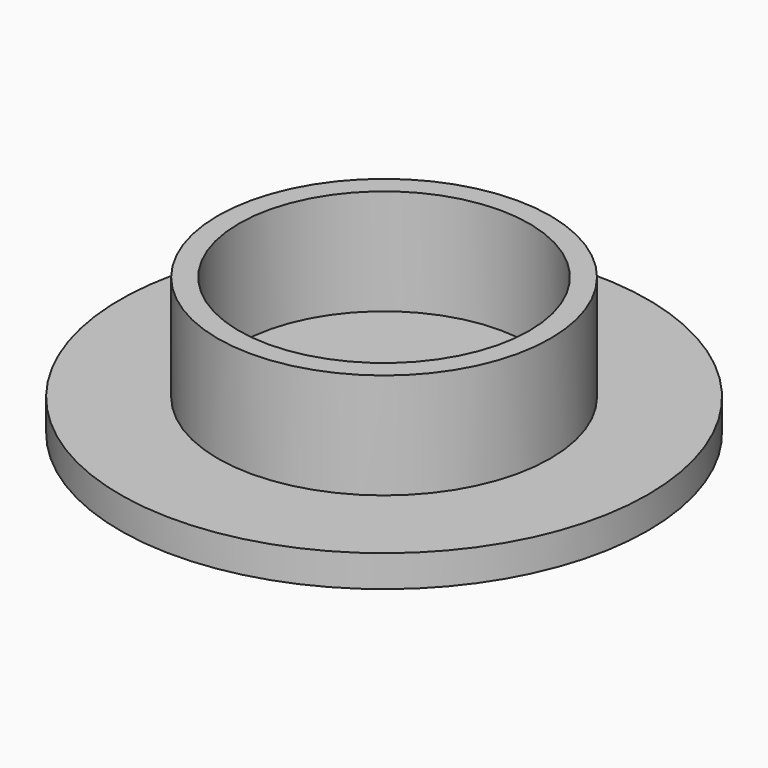
from build123d import *

# Parameters (mm, degrees)
F0_R     = 25
F1_DEPTH = 3
F2_R     = 15.75
F3_DEPTH = 10
F4_R     = 13.75
F5_DEPTH = 10


with BuildPart() as f1:
    # F0 (on Top) → F1 (new body)
    with BuildSketch(Plane.XY):
        Circle(F0_R)
    extrude(amount=F1_DEPTH)

    # F2 (on face) → F3 (join)
    with BuildSketch(Plane.XY.offset(3)):
        Circle(F2_R)
    extrude(amount=F3_DEPTH)

    # F4 (on face) → F5 (cut, through all)
    with BuildSketch(Plane.XY.offset(13)):
        Circle(F4_R)
    extrude(amount=-F5_DEPTH, mode=Mode.SUBTRACT)


solid = f1.part
